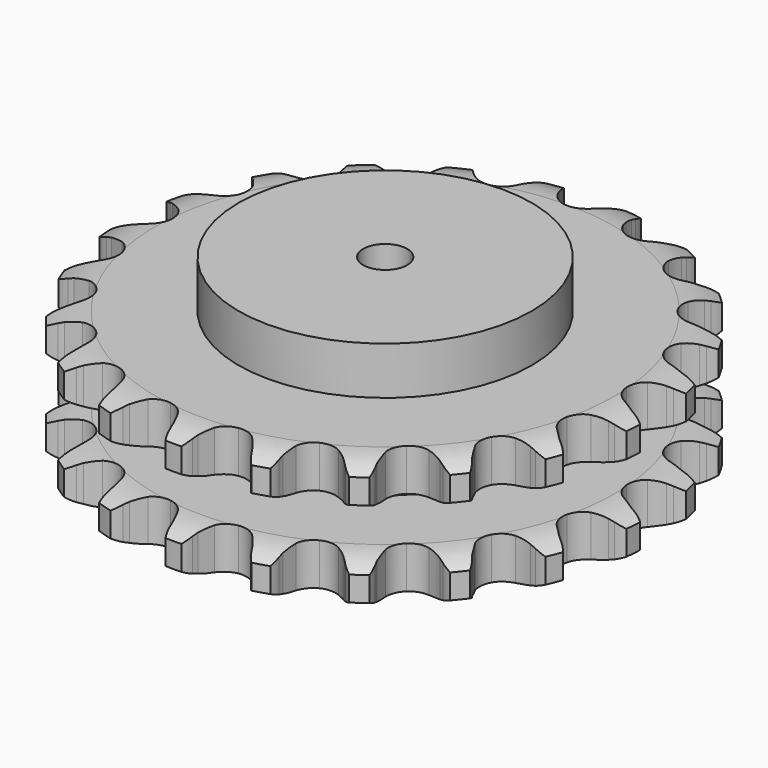
from build123d import *

# Parameters (mm, degrees)
PAD_DEPTH         = 87.4
SKETCH001_R       = 100
PAD001_DEPTH      = 120
SKETCH002_R       = 15
POCKET_DEPTH      = 0.001
POCKET_DEPTH_BACK = 120.001


with BuildPart() as part:
    # Sprocket → Pad (new body)
    with BuildSketch(Plane.XY):
        with BuildLine():
            ThreePointArc((-27.87521, 184.939934), (-22.104018, 180.030351), (-18.139058, 173.573592))
            Line((-18.139058, 173.573592), (-16.729035, 170.173492))
            ThreePointArc((-16.729035, 170.173492), (-14.468284, 165.610673), (-11.619019, 161.390247))
            ThreePointArc((-11.619019, 161.390247), (-6.467609, 157.202743), (0, 155.705331))
            ThreePointArc((0, 155.705331), (6.467609, 157.202743), (11.619019, 161.390247))
            ThreePointArc((11.619019, 161.390247), (14.468284, 165.610673), (16.729035, 170.173492))
            Line((16.729035, 170.173492), (18.139058, 173.573592))
            ThreePointArc((18.139058, 173.573592), (22.104018, 180.030351), (27.87521, 184.939934))
            ThreePointArc((27.87521, 184.939934), (31.942879, 178.547382), (33.828524, 171.208785))
            Line((33.828524, 171.208785), (34.173706, 167.544131))
            ThreePointArc((34.173706, 167.544131), (34.989104, 162.517657), (36.467792, 157.644897))
            ThreePointArc((36.467792, 157.644897), (40.156051, 152.125027), (45.894952, 148.78778))
            ThreePointArc((45.894952, 148.78778), (52.516593, 148.312305), (58.673429, 150.795365))
            Line((58.673429, 150.795365), (66.145329, 157.682192))
            ThreePointArc((66.145329, 157.682192), (67.285865, 159.12731), (68.494905, 160.515623))
            ThreePointArc((68.494905, 160.515623), (74.186877, 165.516834), (81.148795, 168.507209))
            ThreePointArc((81.148795, 168.507209), (83.151511, 161.199694), (82.790293, 153.631327))
            Line((82.790293, 153.631327), (82.039964, 150.027739))
            ThreePointArc((82.039964, 150.027739), (81.337556, 144.984234), (81.314279, 139.892106))
            ThreePointArc((81.314279, 139.892106), (83.211669, 133.530336), (87.711936, 128.649782))
            ThreePointArc((87.711936, 128.649782), (93.899248, 126.243668), (100.514447, 126.801653))
            Line((100.514447, 126.801653), (109.684319, 131.180136))
            ThreePointArc((109.684319, 131.180136), (111.200141, 132.224873), (112.764679, 133.195136))
            ThreePointArc((112.764679, 133.195136), (119.677905, 136.29642), (127.211954, 137.101879))
            ThreePointArc((127.211954, 137.101879), (126.971766, 129.528706), (124.395781, 122.403051))
            Line((124.395781, 122.403051), (122.616611, 119.180723))
            ThreePointArc((122.616611, 119.180723), (120.45881, 114.568326), (118.935636, 109.709287))
            ThreePointArc((118.935636, 109.709287), (118.873565, 103.070887), (121.73533, 97.080686))
            ThreePointArc((121.73533, 97.080686), (126.938542, 92.957727), (133.424315, 91.541058))
            Line((133.424315, 91.541058), (143.477377, 93.02215))
            ThreePointArc((143.477377, 93.02215), (145.233796, 93.573676), (147.014816, 94.039678))
            ThreePointArc((147.014816, 94.039678), (154.535027, 94.96547), (161.971772, 93.514446))
            ThreePointArc((161.971772, 93.514446), (159.510023, 86.348524), (154.948158, 80.298727))
            Line((154.948158, 80.298727), (152.298234, 77.743978))
            ThreePointArc((152.298234, 77.743978), (148.87677, 73.972519), (145.98904, 69.778317))
            ThreePointArc((145.98904, 69.778317), (143.973024, 63.453139), (144.942005, 56.885545))
            ThreePointArc((144.942005, 56.885545), (148.69879, 51.412084), (154.478848, 48.146639))
            Line((154.478848, 48.146639), (164.521839, 46.598738))
            ThreePointArc((164.521839, 46.598738), (166.362791, 46.608047), (168.202042, 46.528381))
            ThreePointArc((168.202042, 46.528381), (175.661033, 45.196422), (182.339687, 41.617844))
            ThreePointArc((182.339687, 41.617844), (177.875115, 35.495896), (171.732711, 31.059509))
            Line((171.732711, 31.059509), (168.44749, 29.399338))
            ThreePointArc((168.44749, 29.399338), (164.066376, 26.803929), (160.070676, 23.647238))
            ThreePointArc((160.070676, 23.647238), (156.279847, 18.1973), (155.269947, 11.635874))
            ThreePointArc((155.269947, 11.635874), (157.246497, 5.298252), (161.807257, 0.474179))
            Line((161.807257, 0.474179), (170.947815, -3.965176))
            ThreePointArc((170.947815, -3.965176), (172.709722, -4.498911), (174.443778, -5.117167))
            ThreePointArc((174.443778, -5.117167), (181.178785, -8.588526), (186.505921, -13.976687))
            ThreePointArc((186.505921, -13.976687), (180.435221, -18.510697), (173.25806, -20.939484))
            Line((173.25806, -20.939484), (169.629448, -21.557561))
            ThreePointArc((169.629448, -21.557561), (164.677964, -22.746307), (159.929331, -24.585003))
            ThreePointArc((159.929331, -24.585003), (154.70052, -28.675449), (151.801473, -34.647696))
            ThreePointArc((151.801473, -34.647696), (151.822164, -41.286354), (154.758381, -47.240414))
            Line((154.758381, -47.240414), (162.184327, -54.176768))
            ThreePointArc((162.184327, -54.176768), (163.710637, -55.206121), (165.185419, -56.308032))
            ThreePointArc((165.185419, -56.308032), (170.598008, -61.610347), (174.100286, -68.329327))
            ThreePointArc((174.100286, -68.329327), (166.962867, -70.872534), (159.388669, -71.077911))
            Line((159.388669, -71.077911), (155.739085, -70.598977))
            ThreePointArc((155.739085, -70.598977), (150.657192, -70.275435), (145.577563, -70.632758))
            ThreePointArc((145.577563, -70.632758), (139.375374, -73.000258), (134.844772, -77.852665))
            ThreePointArc((134.844772, -77.852665), (132.907765, -84.202485), (133.958544, -90.757489))
            Line((133.958544, -90.757489), (139.01005, -99.574516))
            ThreePointArc((139.01005, -99.574516), (140.165143, -101.008026), (141.249611, -102.495681))
            ThreePointArc((141.249611, -102.495681), (144.858848, -109.157817), (146.225076, -116.610607))
            ThreePointArc((146.225076, -116.610607), (138.655129, -116.937035), (131.356896, -114.900753))
            Line((131.356896, -114.900753), (128.010621, -113.367363))
            ThreePointArc((128.010621, -113.367363), (123.249868, -111.560281), (118.290589, -110.404483))
            ThreePointArc((118.290589, -110.404483), (111.666113, -110.838674), (105.906521, -114.140084))
            ThreePointArc((105.906521, -114.140084), (102.183927, -119.636856), (101.255903, -126.210362))
            Line((101.255903, -126.210362), (103.484119, -136.124631))
            ThreePointArc((103.484119, -136.124631), (104.16536, -137.834923), (104.763155, -139.576139))
            ThreePointArc((104.763155, -139.576139), (106.248345, -147.006137), (105.357126, -154.530523))
            ThreePointArc((105.357126, -154.530523), (98.027274, -152.611168), (91.653486, -148.51416))
            Line((91.653486, -148.51416), (88.907851, -146.062562))
            ThreePointArc((88.907851, -146.062562), (84.891252, -142.932507), (80.492978, -140.366285))
            ThreePointArc((80.492978, -140.366285), (74.034828, -138.828587), (67.558011, -140.285656))
            ThreePointArc((67.558011, -140.285656), (62.3806, -144.440968), (59.55623, -150.448891))
            Line((59.55623, -150.448891), (58.763171, -160.579475))
            ThreePointArc((58.763171, -160.579475), (58.910029, -162.414583), (58.968032, -164.254645))
            ThreePointArc((58.968032, -164.254645), (58.197209, -171.792316), (55.127734, -178.719723))
            ThreePointArc((55.127734, -178.719723), (48.689266, -174.725128), (43.806261, -168.931432))
            Line((43.806261, -168.931432), (41.905229, -165.779462))
            ThreePointArc((41.905229, -165.779462), (38.989676, -161.604553), (35.543212, -157.855926))
            ThreePointArc((35.543212, -157.855926), (29.825224, -154.482971), (23.206675, -153.966231))
            ThreePointArc((23.206675, -153.966231), (17.034482, -156.410865), (12.564724, -161.319376))
            Line((12.564724, -161.319376), (8.820857, -170.766128))
            ThreePointArc((8.820857, -170.766128), (8.420283, -172.562995), (7.933341, -174.338405))
            ThreePointArc((7.933341, -174.338405), (4.974997, -181.313994), (0, -187.028892))
            ThreePointArc((0, -187.028892), (-4.974997, -181.313994), (-7.933341, -174.338405))
            Line((-7.933341, -174.338405), (-8.820857, -170.766128))
            ThreePointArc((-8.820857, -170.766128), (-10.376304, -165.917324), (-12.564724, -161.319376))
            ThreePointArc((-12.564724, -161.319376), (-17.034482, -156.410865), (-23.206675, -153.966231))
            ThreePointArc((-23.206675, -153.966231), (-29.825224, -154.482971), (-35.543212, -157.855926))
            Line((-35.543212, -157.855926), (-41.905229, -165.779462))
            ThreePointArc((-41.905229, -165.779462), (-42.817643, -167.378427), (-43.806261, -168.931432))
            ThreePointArc((-43.806261, -168.931432), (-48.689266, -174.725128), (-55.127734, -178.719723))
            ThreePointArc((-55.127734, -178.719723), (-58.197209, -171.792316), (-58.968032, -164.254645))
            Line((-58.968032, -164.254645), (-58.763171, -160.579475))
            ThreePointArc((-58.763171, -160.579475), (-58.820304, -155.487614), (-59.55623, -150.448891))
            ThreePointArc((-59.55623, -150.448891), (-62.3806, -144.440968), (-67.558011, -140.285656))
            ThreePointArc((-67.558011, -140.285656), (-74.034828, -138.828587), (-80.492978, -140.366285))
            Line((-80.492978, -140.366285), (-88.907851, -146.062562))
            ThreePointArc((-88.907851, -146.062562), (-90.251032, -147.321552), (-91.653486, -148.51416))
            ThreePointArc((-91.653486, -148.51416), (-98.027274, -152.611168), (-105.357126, -154.530523))
            ThreePointArc((-105.357126, -154.530523), (-106.248345, -147.006137), (-104.763155, -139.576139))
            Line((-104.763155, -139.576139), (-103.484119, -136.124631))
            ThreePointArc((-103.484119, -136.124631), (-102.037862, -131.242146), (-101.255903, -126.210362))
            ThreePointArc((-101.255903, -126.210362), (-102.183927, -119.636856), (-105.906521, -114.140084))
            ThreePointArc((-105.906521, -114.140084), (-111.666113, -110.838674), (-118.290589, -110.404483))
            Line((-118.290589, -110.404483), (-128.010621, -113.367363))
            ThreePointArc((-128.010621, -113.367363), (-129.665222, -114.17451), (-131.356896, -114.900753))
            ThreePointArc((-131.356896, -114.900753), (-138.655129, -116.937035), (-146.225076, -116.610607))
            ThreePointArc((-146.225076, -116.610607), (-144.858848, -109.157817), (-141.249611, -102.495681))
            Line((-141.249611, -102.495681), (-139.01005, -99.574516))
            ThreePointArc((-139.01005, -99.574516), (-136.188908, -95.335238), (-133.958544, -90.757489))
            ThreePointArc((-133.958544, -90.757489), (-132.907765, -84.202485), (-134.844772, -77.852665))
            ThreePointArc((-134.844772, -77.852665), (-139.375374, -73.000258), (-145.577563, -70.632758))
            Line((-145.577563, -70.632758), (-155.739085, -70.598977))
            ThreePointArc((-155.739085, -70.598977), (-157.558087, -70.882561), (-159.388669, -71.077911))
            ThreePointArc((-159.388669, -71.077911), (-166.962867, -70.872534), (-174.100286, -68.329327))
            ThreePointArc((-174.100286, -68.329327), (-170.598008, -61.610347), (-165.185419, -56.308032))
            Line((-165.185419, -56.308032), (-162.184327, -54.176768))
            ThreePointArc((-162.184327, -54.176768), (-158.238971, -50.957376), (-154.758381, -47.240414))
            ThreePointArc((-154.758381, -47.240414), (-151.822164, -41.286354), (-151.801473, -34.647696))
            ThreePointArc((-151.801473, -34.647696), (-154.70052, -28.675449), (-159.929331, -24.585003))
            Line((-159.929331, -24.585003), (-169.629448, -21.557561))
            ThreePointArc((-169.629448, -21.557561), (-171.451225, -21.292387), (-173.25806, -20.939484))
            ThreePointArc((-173.25806, -20.939484), (-180.435221, -18.510697), (-186.505921, -13.976687))
            ThreePointArc((-186.505921, -13.976687), (-181.178785, -8.588526), (-174.443778, -5.117167))
            Line((-174.443778, -5.117167), (-170.947815, -3.965176))
            ThreePointArc((-170.947815, -3.965176), (-166.228808, -2.051727), (-161.807257, 0.474179))
            ThreePointArc((-161.807257, 0.474179), (-157.246497, 5.298252), (-155.269947, 11.635874))
            ThreePointArc((-155.269947, 11.635874), (-156.279847, 18.1973), (-160.070676, 23.647238))
            Line((-160.070676, 23.647238), (-168.44749, 29.399338))
            ThreePointArc((-168.44749, 29.399338), (-170.11017, 30.18971), (-171.732711, 31.059509))
            ThreePointArc((-171.732711, 31.059509), (-177.875115, 35.495896), (-182.339687, 41.617844))
            ThreePointArc((-182.339687, 41.617844), (-175.661033, 45.196422), (-168.202042, 46.528381))
            Line((-168.202042, 46.528381), (-164.521839, 46.598738))
            ThreePointArc((-164.521839, 46.598738), (-159.448486, 47.036227), (-154.478848, 48.146639))
            ThreePointArc((-154.478848, 48.146639), (-148.69879, 51.412084), (-144.942005, 56.885545))
            ThreePointArc((-144.942005, 56.885545), (-143.973024, 63.453139), (-145.98904, 69.778317))
            Line((-145.98904, 69.778317), (-152.298234, 77.743978))
            ThreePointArc((-152.298234, 77.743978), (-153.654079, 78.989319), (-154.948158, 80.298727))
            ThreePointArc((-154.948158, 80.298727), (-159.510023, 86.348524), (-161.971772, 93.514446))
            ThreePointArc((-161.971772, 93.514446), (-154.535027, 94.96547), (-147.014816, 94.039678))
            Line((-147.014816, 94.039678), (-143.477377, 93.02215))
            ThreePointArc((-143.477377, 93.02215), (-138.500466, 91.944805), (-133.424315, 91.541058))
            ThreePointArc((-133.424315, 91.541058), (-126.938542, 92.957727), (-121.73533, 97.080686))
            ThreePointArc((-121.73533, 97.080686), (-118.873565, 103.070887), (-118.935636, 109.709287))
            Line((-118.935636, 109.709287), (-122.616611, 119.180723))
            ThreePointArc((-122.616611, 119.180723), (-123.545149, 120.77038), (-124.395781, 122.403051))
            ThreePointArc((-124.395781, 122.403051), (-126.971766, 129.528706), (-127.211954, 137.101879))
            ThreePointArc((-127.211954, 137.101879), (-119.677905, 136.29642), (-112.764679, 133.195136))
            Line((-112.764679, 133.195136), (-109.684319, 131.180136))
            ThreePointArc((-109.684319, 131.180136), (-105.246072, 128.683685), (-100.514447, 126.801653))
            ThreePointArc((-100.514447, 126.801653), (-93.899248, 126.243668), (-87.711936, 128.649782))
            ThreePointArc((-87.711936, 128.649782), (-83.211669, 133.530336), (-81.314279, 139.892106))
            Line((-81.314279, 139.892106), (-82.039964, 150.027739))
            ThreePointArc((-82.039964, 150.027739), (-82.45869, 151.820463), (-82.790293, 153.631327))
            ThreePointArc((-82.790293, 153.631327), (-83.151511, 161.199694), (-81.148795, 168.507209))
            ThreePointArc((-81.148795, 168.507209), (-74.186877, 165.516834), (-68.494905, 160.515623))
            Line((-68.494905, 160.515623), (-66.145329, 157.682192))
            ThreePointArc((-66.145329, 157.682192), (-62.640102, 153.988454), (-58.673429, 150.795365))
            ThreePointArc((-58.673429, 150.795365), (-52.516593, 148.312305), (-45.894952, 148.78778))
            ThreePointArc((-45.894952, 148.78778), (-40.156051, 152.125027), (-36.467792, 157.644897))
            Line((-36.467792, 157.644897), (-34.173706, 167.544131))
            ThreePointArc((-34.173706, 167.544131), (-34.045415, 169.380631), (-33.828524, 171.208785))
            ThreePointArc((-33.828524, 171.208785), (-31.942879, 178.547382), (-27.87521, 184.939934))
        make_face()
    extrude(amount=PAD_DEPTH)

    # Sketch → Groove (revolve, cut)
    with BuildSketch(Plane.XZ):
        with BuildLine():
            ThreePointArc((156.65, 0), (169.019317, 1.522732), (180.65, 6))
            Line((180.65, 6), (180.65, 22.8))
            ThreePointArc((180.65, 22.8), (169.019317, 27.277268), (156.65, 28.8))
            Line((100, 28.8), (156.65, 28.8))
            Line((100, 58.6), (100, 28.8))
            Line((156.65, 58.6), (100, 58.6))
            ThreePointArc((156.65, 58.6), (169.019317, 60.122732), (180.65, 64.6))
            Line((180.65, 64.6), (180.65, 81.4))
            ThreePointArc((180.65, 81.4), (169.019317, 85.877268), (156.65, 87.4))
            Line((156.65, 87.4), (190.65, 87.4))
            Line((190.65, 87.4), (190.65, 0))
            Line((156.65, 0), (190.65, 0))
        make_face()
    revolve(axis=Axis((0, 0, 0), (0, 0, 1)), mode=Mode.SUBTRACT)

    # Sketch001 → Pad001 (join)
    with BuildSketch(Plane.XY):
        Circle(SKETCH001_R)
    extrude(amount=PAD001_DEPTH)

    # Sketch002 → Pocket (cut, two sides)
    with BuildSketch(Plane.XY) as pocket_sk:
        Circle(SKETCH002_R)
    extrude(amount=-POCKET_DEPTH, mode=Mode.SUBTRACT)
    extrude(pocket_sk.sketch, amount=POCKET_DEPTH_BACK, mode=Mode.SUBTRACT)


solid = part.part
